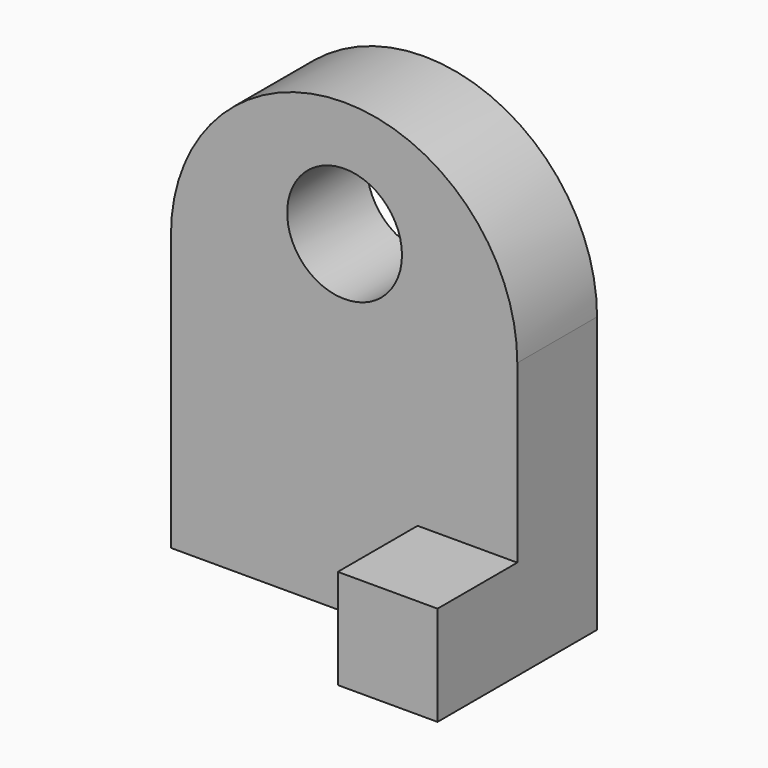
from build123d import *

# Parameters (mm, degrees)
F1_DEPTH = 19.304
F3_DEPTH = 19.304
F4_R     = 11.1125
F5_DEPTH = 19.304
F6_W     = 19.304
F6_H     = 19.304
F7_DEPTH = 19.304


with BuildPart() as f1:
    # F0 (on Front) → F1 (new body)
    with BuildSketch(Plane.XZ):
        with BuildLine():
            Line((-67.056, 0), (0, 0))
            Line((0, 0), (0, 53.34))
            ThreePointArc((0, 53.34), (-33.528, 86.868), (-67.056, 53.34))
            Line((-67.056, 53.34), (-67.056, 0))
        make_face()
    extrude(amount=F1_DEPTH)

    # F0 (on Front) → F3 (join)
    with BuildSketch(Plane.XZ):
        with BuildLine():
            Line((-67.056, 0), (0, 0))
            Line((0, 0), (0, 53.34))
            ThreePointArc((0, 53.34), (-33.528, 86.868), (-67.056, 53.34))
            Line((-67.056, 53.34), (-67.056, 0))
        make_face()
    extrude(amount=F3_DEPTH)

    # F4 (on face) → F5 (cut)
    with BuildSketch(Plane.XZ.offset(19.304)):
        with Locations((-33.439703, 64.4525)):
            Circle(F4_R)
    extrude(amount=-F5_DEPTH, mode=Mode.SUBTRACT)

    # F6 (on face) → F7 (join)
    with BuildSketch(Plane.XZ.offset(19.304)):
        with Locations((-9.652, 9.652)):
            Rectangle(F6_W, F6_H)
    extrude(amount=F7_DEPTH)


solid = f1.part
